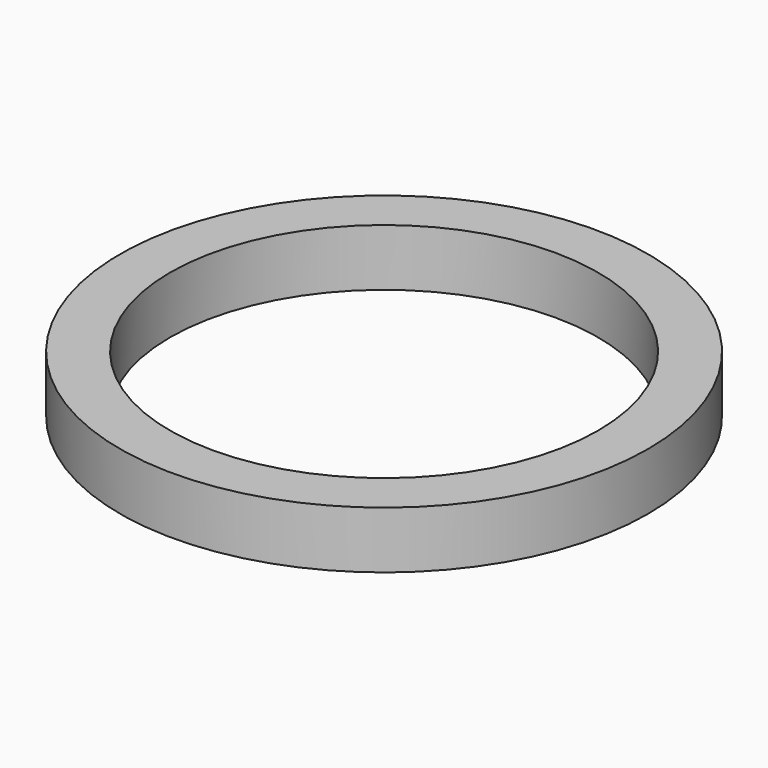
from build123d import *

# Parameters (mm, degrees)
SKETCH_R   = 18.5
SKETCH_R_2 = 15
PAD_DEPTH  = 4


with BuildPart() as part:
    # Sketch → Pad (new body)
    with BuildSketch(Plane.XY):
        Circle(SKETCH_R)
        Circle(SKETCH_R_2, mode=Mode.SUBTRACT)
    extrude(amount=PAD_DEPTH)


solid = part.part
